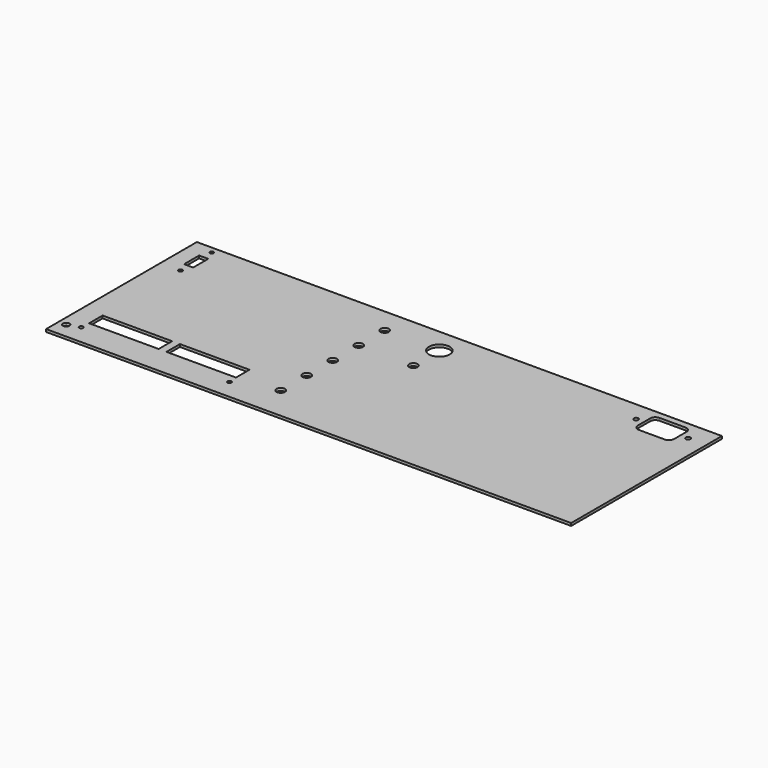
from build123d import *

# Parameters (mm, degrees)
F0_W     = 404
F0_H     = 145
F0_R     = 2.5
F0_R_2   = 1.5
F0_W_2   = 53.5
F0_H_2   = 13
F0_R_3   = 3.25
F0_W_3   = 7
F0_H_3   = 14.5
F0_R_4   = 8
F0_R_5   = 1.75
F1_DEPTH = 2


with BuildPart() as f1:
    # F0 (on Top) → F1 (new body)
    with BuildSketch(Plane.XY):
        Rectangle(F0_W, F0_H)
        with Locations((-196.113765, -60.5)):
            Circle(F0_R, mode=Mode.SUBTRACT)
        with Locations((-187, -57.5)):
            Circle(F0_R_2, mode=Mode.SUBTRACT)
        with Locations((-159.75, -44)):
            Rectangle(F0_W_2, F0_H_2, mode=Mode.SUBTRACT)
        with Locations((-73, -57.5)):
            Circle(F0_R_2, mode=Mode.SUBTRACT)
        with Locations((-100.25, -44)):
            Rectangle(F0_W_2, F0_H_2, mode=Mode.SUBTRACT)
        with Locations((-42.060282, -46.764122)):
            Circle(F0_R_3, mode=Mode.SUBTRACT)
        with Locations((-42.060282, -21.764122)):
            Circle(F0_R_3, mode=Mode.SUBTRACT)
        with Locations((-42.060282, 3.235878)):
            Circle(F0_R_3, mode=Mode.SUBTRACT)
        with Locations((-42.060282, 28.235878)):
            Circle(F0_R_3, mode=Mode.SUBTRACT)
        with Locations((-186.5, 37.4)):
            Circle(F0_R_2, mode=Mode.SUBTRACT)
        with Locations((-186.5, 52.45)):
            Rectangle(F0_W_3, F0_H_3, mode=Mode.SUBTRACT)
        with Locations((-186.5, 67.5)):
            Circle(F0_R_2, mode=Mode.SUBTRACT)
        with Locations((-42.060282, 53.235878)):
            Circle(F0_R_3, mode=Mode.SUBTRACT)
        with Locations((0, 28.235878)):
            Circle(F0_R_3, mode=Mode.SUBTRACT)
        with Locations((0, 53.235878)):
            Circle(F0_R_4, mode=Mode.SUBTRACT)
        with Locations((148, 57.5)):
            Circle(F0_R_5, mode=Mode.SUBTRACT)
        with BuildLine():
            ThreePointArc((182, 51.5), (180.828427, 48.671573), (178, 47.5))
            Line((178, 47.5), (158, 47.5))
            ThreePointArc((158, 47.5), (155.171573, 48.671573), (154, 51.5))
            Line((154, 51.5), (154, 63.5))
            ThreePointArc((154, 63.5), (155.171573, 66.328427), (158, 67.5))
            Line((158, 67.5), (178, 67.5))
            ThreePointArc((178, 67.5), (180.828427, 66.328427), (182, 63.5))
            Line((182, 63.5), (182, 51.5))
        make_face(mode=Mode.SUBTRACT)
        with Locations((188, 57.5)):
            Circle(F0_R_5, mode=Mode.SUBTRACT)
    extrude(amount=-F1_DEPTH)


solid = f1.part
